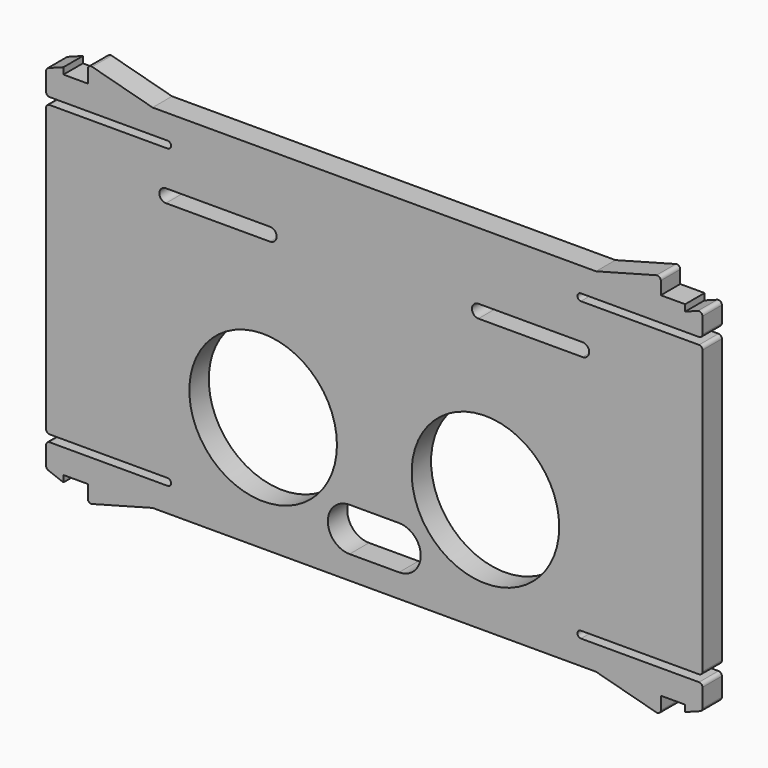
from build123d import *

# Parameters (mm, degrees)
PAD009_DEPTH    = 2.8
FILLET004_R     = 0.4
POCKET014_DEPTH = 2.801
SKETCH028_R     = 8.5
POCKET017_DEPTH = 2.801


with BuildPart() as part:
    # Sketch009 (on Face6 of ShapeBinder008) → Pad009 (new body)
    with BuildSketch(Plane.XZ.offset(60.5)):
        with BuildLine():
            Line((37.8, 3.2), (37.8, 0.4))
            Line((37.8, 0.4), (23.8, 0.4))
            ThreePointArc((23.8, 0.4), (23.4, 0), (23.8, -0.4))
            Line((23.8, -0.4), (37.8, -0.4))
            Line((37.8, -0.4), (37.8, -33.8))
            Line((37.8, -33.8), (23.8, -33.8))
            ThreePointArc((23.8, -33.8), (23.4, -34.2), (23.8, -34.6))
            Line((23.8, -34.6), (37.8, -34.6))
            Line((37.8, -34.6), (37.8, -37.4))
            Line((37.8, -37.4), (35.8, -38.15))
            Line((35.8, -38.15), (35.8, -37.4))
            Line((35.8, -37.4), (33, -37.4))
            Line((33, -37.4), (33, -39.4))
            Line((33, -39.4), (25.535898, -37.4))
            Line((25.535898, -37.4), (-25.535898, -37.4))
            Line((-25.535898, -37.4), (-33, -39.4))
            Line((-33, -39.4), (-33, -37.4))
            Line((-33, -37.4), (-35.8, -37.4))
            Line((-35.8, -38.15), (-35.8, -37.4))
            Line((-37.8, -37.4), (-35.8, -38.15))
            Line((-37.8, -37.4), (-37.8, -34.6))
            Line((-37.8, -34.6), (-23.8, -34.6))
            ThreePointArc((-23.8, -34.6), (-23.4, -34.2), (-23.8, -33.8))
            Line((-23.8, -33.8), (-37.8, -33.8))
            Line((-37.8, -33.8), (-37.8, -0.4))
            Line((-37.8, -0.4), (-23.8, -0.4))
            ThreePointArc((-23.8, -0.4), (-23.4, 0), (-23.8, 0.4))
            Line((-23.8, 0.4), (-37.8, 0.4))
            Line((-37.8, 0.4), (-37.8, 3.2))
            Line((-37.8, 3.2), (-35.8, 3.95))
            Line((-35.8, 3.95), (-35.8, 3.2))
            Line((-35.8, 3.2), (-33, 3.2))
            Line((-33, 3.2), (-33, 5.2))
            Line((-33, 5.2), (-25.535898, 3.2))
            Line((-25.535898, 3.2), (25.535898, 3.2))
            Line((25.535898, 3.2), (33, 5.2))
            Line((33, 5.2), (33, 3.2))
            Line((33, 3.2), (35.8, 3.2))
            Line((35.8, 2.45), (35.8, 3.2))
            Line((37.8, 3.2), (35.8, 2.45))
        make_face()
    extrude(amount=-PAD009_DEPTH)

    # Fillet004
    fillet004_edges = [part.edges().sort_by_distance(p)[0] for p in [
        (33, -59.1, 5.2),
        (37.8, -59.1, 3.2),
        (37.8, -59.1, 0.4),
        (37.8, -59.1, -0.4),
        (37.8, -59.1, -33.8),
        (37.8, -59.1, -34.6),
        (37.8, -59.1, -37.4),
        (33, -59.1, -39.4),
        (-37.8, -59.1, -33.8),
        (-37.8, -59.1, -34.6),
        (-37.8, -59.1, -37.4),
        (-33, -59.1, -39.4),
        (-33, -59.1, 5.2),
        (-37.8, -59.1, 3.2),
        (-37.8, -59.1, 0.4),
        (-37.8, -59.1, -0.4),
    ]]
    fillet(fillet004_edges, radius=FILLET004_R)

    # Sketch025 (on Face2 of Fillet004) → Pocket014 (cut, through all)
    with BuildSketch(Plane.XZ.offset(60.5)):
        with BuildLine():
            ThreePointArc((-24, -4.49), (-24.755, -5.245), (-24, -6))
            Line((-24, -6), (-12, -6))
            ThreePointArc((-12, -6), (-11.245, -5.245), (-12, -4.49))
            Line((-24, -4.49), (-12, -4.49))
        make_face()
        with BuildLine():
            ThreePointArc((12, -4.49), (11.245, -5.245), (12, -6))
            Line((12, -6), (24, -6))
            ThreePointArc((24, -6), (24.755, -5.245), (24, -4.49))
            Line((12, -4.49), (24, -4.49))
        make_face()
    extrude(amount=-POCKET014_DEPTH, mode=Mode.SUBTRACT)

    # Sketch028 (on Face2 of Pocket014) → Pocket017 (cut, through all)
    with BuildSketch(Plane.XZ.offset(60.5)):
        with Locations((-12.8, -24.1)):
            Circle(SKETCH028_R)
        with Locations((12.8, -24.1)):
            Circle(SKETCH028_R)
        with BuildLine():
            ThreePointArc((-2.85, -29.7), (-5.35, -32.2), (-2.85, -34.7))
            Line((-2.85, -34.7), (2.85, -34.7))
            ThreePointArc((2.85, -34.7), (5.35, -32.2), (2.85, -29.7))
            Line((-2.85, -29.7), (2.85, -29.7))
        make_face()
    extrude(amount=-POCKET017_DEPTH, mode=Mode.SUBTRACT)


solid = part.part
